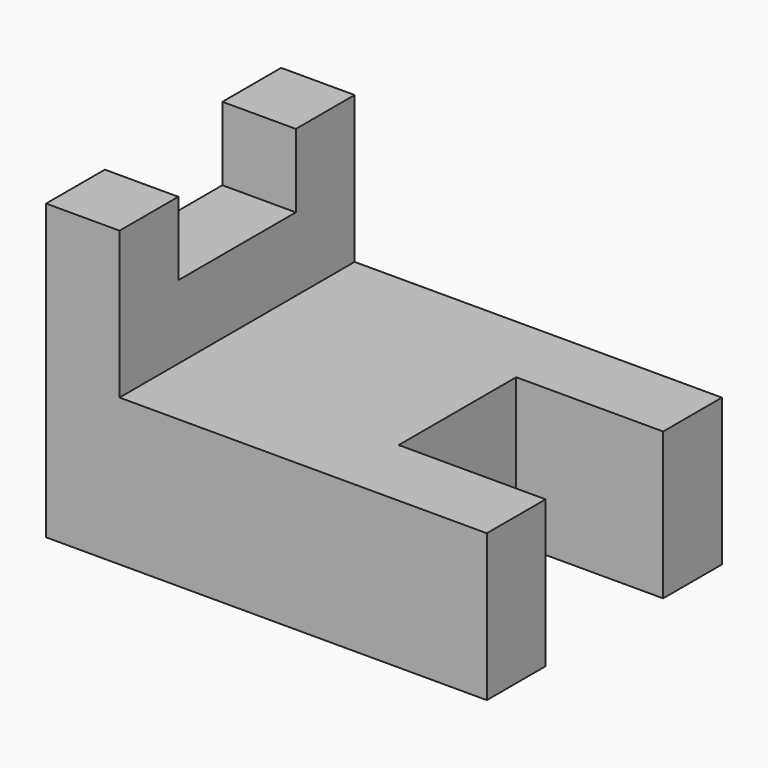
from build123d import *

# Parameters (mm, degrees)
F1_DEPTH = 25.4
F2_W     = 12.7
F2_H     = 6.35
F3_DEPTH = 25.4
F4_W     = 12.7
F4_H     = 12.7
F5_DEPTH = 25.401


with BuildPart() as f1:
    # F0 (on Front) → F1 (new body)
    with BuildSketch(Plane.XZ):
        Polygon((6.35, 0), (0, 0), (0, -25.4), (38.1, -25.4), (38.1, -12.7), (6.35, -12.7), align=None)
    extrude(amount=F1_DEPTH)

    # F2 (on Right) → F3 (cut)
    with BuildSketch(Plane.YZ):
        with Locations((-12.7, -3.175)):
            Rectangle(F2_W, F2_H)
    extrude(amount=F3_DEPTH, mode=Mode.SUBTRACT)

    # F4 (on Top) → F5 (cut, through all)
    with BuildSketch(Plane.XY):
        with Locations((31.75, -12.7)):
            Rectangle(F4_W, F4_H)
    extrude(amount=-F5_DEPTH, mode=Mode.SUBTRACT)


solid = f1.part
